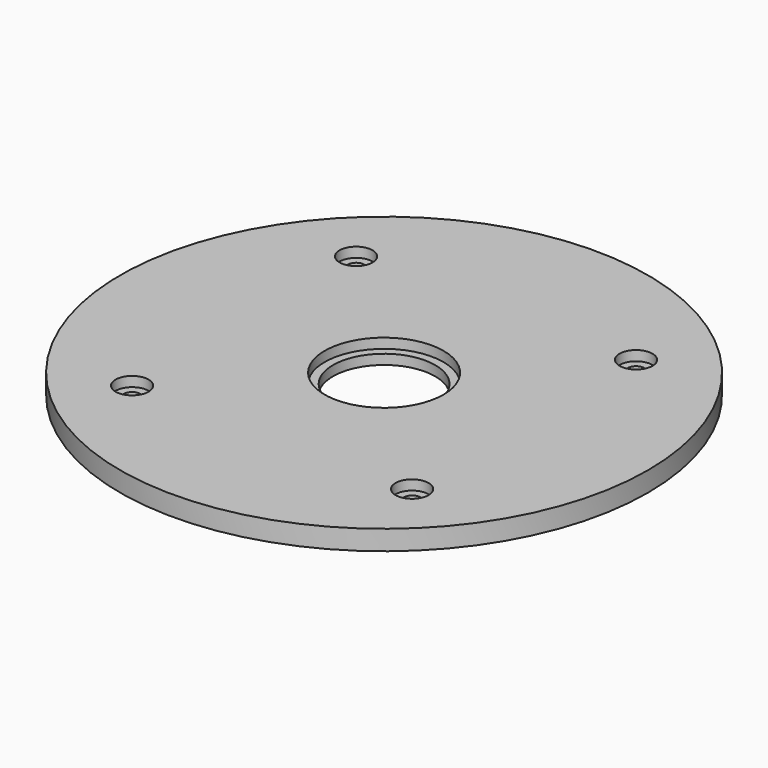
from build123d import *

# Parameters (mm, degrees)
SKETCH006_R           = 80
SKETCH006_R_2         = 15.5
PAD002_DEPTH          = 6
SKETCH007_R           = 2.5
POCKET004_DEPTH       = 6
POLARPATTERN002_COUNT = 4
SKETCH008_R           = 5
POCKET005_DEPTH       = 3
POLARPATTERN003_COUNT = 4
SKETCH009_R           = 18
POCKET006_DEPTH       = 3


with BuildPart() as part:
    # Sketch006 → Pad002 (new body)
    with BuildSketch(Plane.XY):
        Circle(SKETCH006_R)
        Circle(SKETCH006_R_2, mode=Mode.SUBTRACT)
    extrude(amount=PAD002_DEPTH)

    # Sketch007 (on Face4 of Pad002) → Pocket004 (cut)
    with BuildSketch(Plane.XY.offset(6)):
        with Locations((42.426407, 42.426407)):
            Circle(SKETCH007_R)
    pocket004 = extrude(amount=-POCKET004_DEPTH, mode=Mode.SUBTRACT)

    # PolarPattern002: Pocket004 ×4 about axis
    polarpattern002_axis = Axis((0, 0, 6), (0, 0, 1))
    for i in range(1, POLARPATTERN002_COUNT):
        add(pocket004.rotate(polarpattern002_axis, i * 360 / POLARPATTERN002_COUNT), mode=Mode.SUBTRACT)

    # Sketch008 (on Face3 of PolarPattern002) → Pocket005 (cut)
    with BuildSketch(Plane.XY.offset(6)):
        with Locations((42.426407, 42.426407)):
            Circle(SKETCH008_R)
    pocket005 = extrude(amount=-POCKET005_DEPTH, mode=Mode.SUBTRACT)

    # PolarPattern003: Pocket005 ×4 about axis
    polarpattern003_axis = Axis((0, 0, 6), (0, 0, 1))
    for i in range(1, POLARPATTERN003_COUNT):
        add(pocket005.rotate(polarpattern003_axis, i * 360 / POLARPATTERN003_COUNT), mode=Mode.SUBTRACT)

    # Sketch009 (on Face3 of PolarPattern003) → Pocket006 (cut)
    with BuildSketch(Plane.XY.offset(6)):
        Circle(SKETCH009_R)
    extrude(amount=-POCKET006_DEPTH, mode=Mode.SUBTRACT)


solid = part.part
